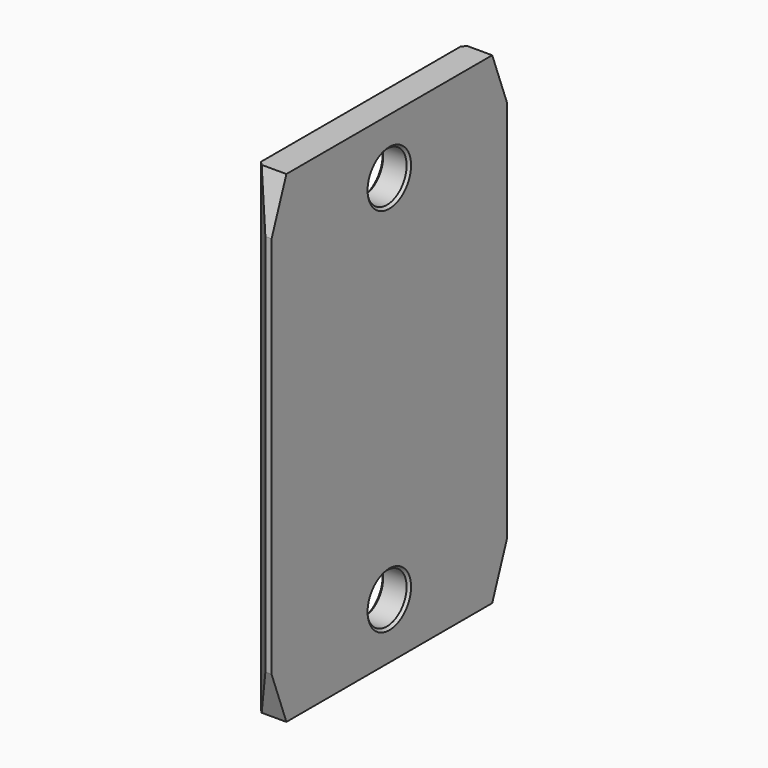
from build123d import *

# Parameters (mm, degrees)
PAD011_DEPTH       = 19.5
SKETCH016_R        = 2
POCKET003_DEPTH    = 2.3
CHAMFER006_1_SIZE2 = 4
CHAMFER006_1_SIZE  = 1.5
CHAMFER006_2_SIZE2 = 4
CHAMFER006_2_SIZE  = 1.5
CHAMFER007_SIZE    = 0.2


with BuildPart() as part:
    # Sketch015 → Pad011 (new body, symmetric)
    with BuildSketch(Plane.XY):
        Polygon((0, -10.1), (0, 10.1), (1.8, 11.9), (2.3, 11.9), (2.3, -11.9), (1.8, -11.9), align=None)
    extrude(amount=PAD011_DEPTH, both=True)

    # Sketch016 (on Face4 of Pad011) → Pocket003 (cut)
    with BuildSketch(Plane.YZ.offset(2.3)):
        with Locations((0, 15)):
            Circle(SKETCH016_R)
        with Locations((0, -15)):
            Circle(SKETCH016_R)
    extrude(amount=-POCKET003_DEPTH, mode=Mode.SUBTRACT)

    # Chamfer006 1
    chamfer006_1_edges = [part.edges().sort_by_distance(p)[0] for p in [
        (2.05, -11.9, -19.5),
        (2.05, 11.9, -19.5),
    ]]
    chamfer006_1_side = part.faces().sort_by_distance((1.184602, 0, -19.5))[0]
    chamfer(chamfer006_1_edges, length=CHAMFER006_1_SIZE, length2=CHAMFER006_1_SIZE2, reference=chamfer006_1_side)

    # Chamfer006 2
    chamfer006_2_edges = [part.edges().sort_by_distance(p)[0] for p in [
        (2.05, -11.9, 19.5),
        (2.05, 11.9, 19.5),
    ]]
    chamfer006_2_side = part.faces().sort_by_distance((1.184602, 0, 19.5))[0]
    chamfer(chamfer006_2_edges, length=CHAMFER006_2_SIZE, length2=CHAMFER006_2_SIZE2, reference=chamfer006_2_side)

    # Chamfer007
    chamfer007_edges = [part.edges().sort_by_distance(p)[0] for p in [
        (2.3, -2, -15),
        (0, -2, -15),
        (2.3, -2, 15),
        (0, -2, 15),
    ]]
    chamfer(chamfer007_edges, length=CHAMFER007_SIZE)


solid = part.part
